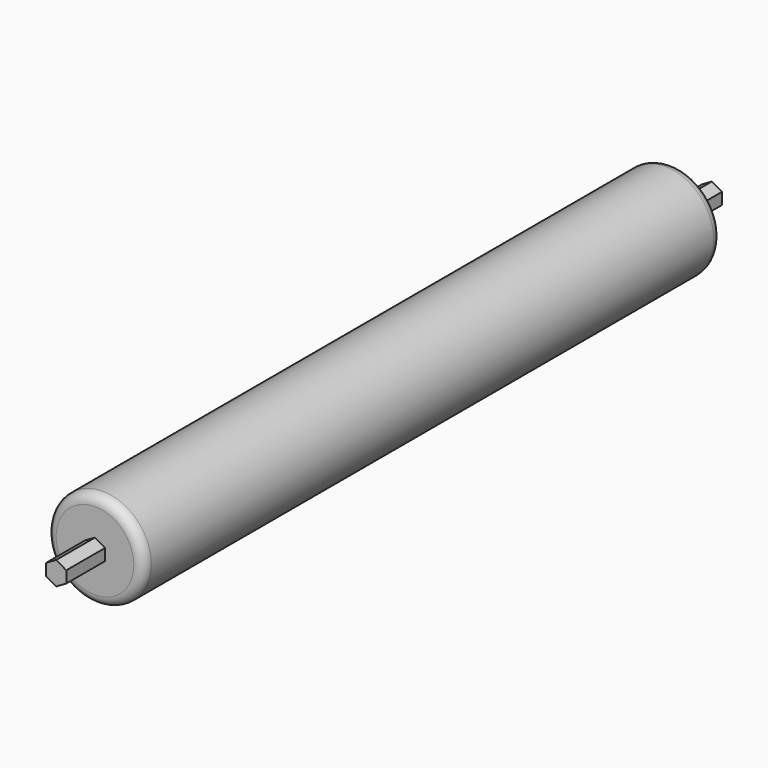
from build123d import *

# Parameters (mm, degrees)
F0_R          = 25
F1_DEPTH      = 372
F2_R          = 5
F4_DEPTH      = 25
F4_DEPTH_BACK = 397


with BuildPart() as f1:
    # F0 (on Front) → F1 (new body)
    with BuildSketch(Plane.XZ):
        Circle(F0_R)
    extrude(amount=F1_DEPTH)

    # F2
    f2_edges = [f1.edges().sort_by_distance(p)[0] for p in [
        (-25, -372, 0),
        (-25, 0, 0),
    ]]
    fillet(f2_edges, radius=F2_R)

    # F3 (on face) → F4 (join, two sides)
    with BuildSketch(Plane(origin=(0, 0, 0), x_dir=(-1, 0, 0), z_dir=(0, 1, 0))) as f4_sk:
        Polygon((-0.001922, -6), (5.195191, -3.001664), (5.197113, 2.998336), (0.001922, 6), (-5.195191, 3.001664), (-5.197113, -2.998336), align=None)
    extrude(amount=F4_DEPTH)
    extrude(f4_sk.sketch, amount=-F4_DEPTH_BACK)


solid = f1.part
